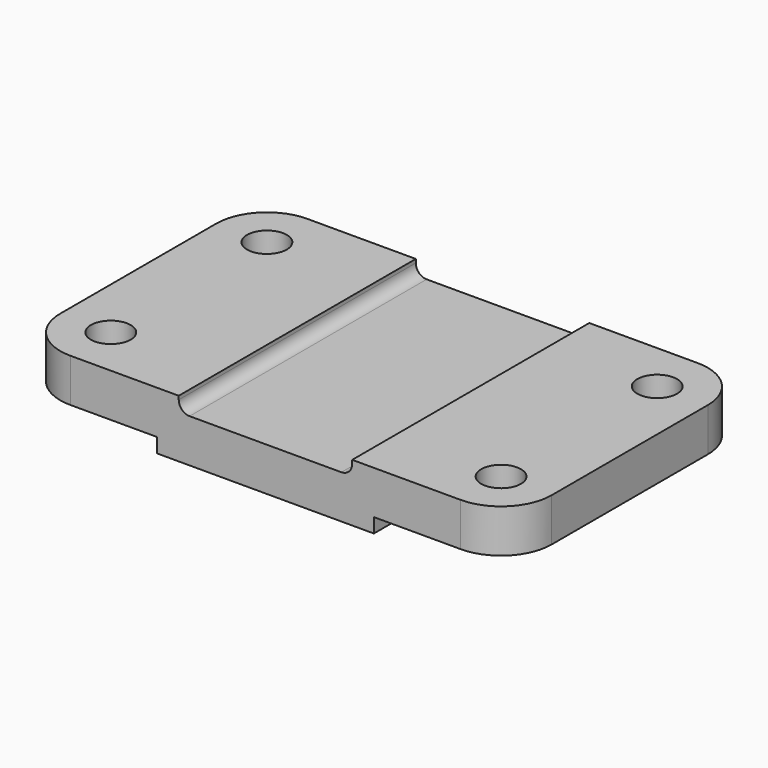
from build123d import *

# Parameters (mm, degrees)
F1_DEPTH = 82
F2_R     = 14
F3_R     = 14
F4_R     = 14
F5_R     = 5.5
F6_DEPTH = 10000


with BuildPart() as f1:
    # F0 (on Front) → F1 (new body)
    with BuildSketch(Plane.XZ):
        with BuildLine():
            Line((44, 0), (0, 0))
            Line((0, 0), (0, -12))
            Line((0, -12), (38, -12))
            Line((38, -12), (38, -16))
            Line((38, -16), (98, -16))
            Line((98, -16), (98, -12))
            Line((98, -12), (136, -12))
            Line((136, -12), (136, 0))
            Line((136, 0), (92, 0))
            Line((92, 0), (92, -1))
            ThreePointArc((92, -1), (91.12132, -3.12132), (89, -4))
            Line((89, -4), (47, -4))
            ThreePointArc((47, -4), (44.87868, -3.12132), (44, -1))
            Line((44, -1), (44, 0))
        make_face()
    extrude(amount=-F1_DEPTH)

    # F2
    f2_edges = [f1.edges().sort_by_distance(p)[0] for p in [
        (0, 82, -6),
    ]]
    fillet(f2_edges, radius=F2_R)

    # F3
    f3_edges = [f1.edges().sort_by_distance(p)[0] for p in [
        (0, 0, -6),
    ]]
    fillet(f3_edges, radius=F3_R)

    # F4
    f4_edges = [f1.edges().sort_by_distance(p)[0] for p in [
        (136, 0, -6),
        (136, 82, -6),
    ]]
    fillet(f4_edges, radius=F4_R)

    # F5 (on face) → F6 (cut)
    with BuildSketch(Plane.XY):
        with Locations((14, 68)):
            Circle(F5_R)
        with Locations((14, 14)):
            Circle(F5_R)
        with Locations((122, 14)):
            Circle(F5_R)
        with Locations((122, 68)):
            Circle(F5_R)
    extrude(amount=-F6_DEPTH, mode=Mode.SUBTRACT)


solid = f1.part
